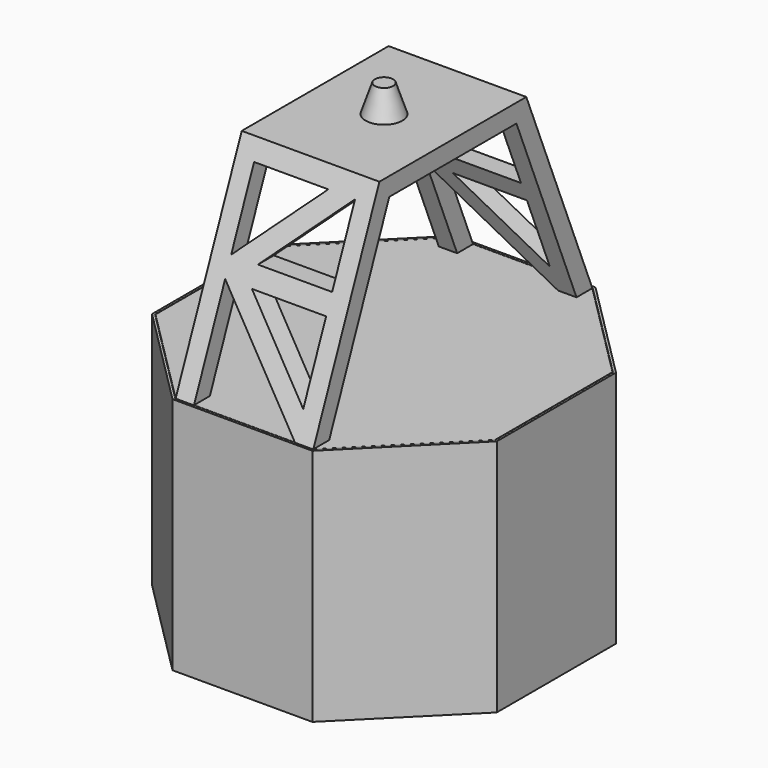
from build123d import *

# Parameters (mm, degrees)
F1_R      = 845.7
F1_R_2    = 833
F2_DEPTH  = 2600
F4_DEPTH  = 25
F6_DEPTH  = 2600
F10_DEPTH = 2600
F14_DEPTH = 1500
F16_DEPTH = 2500


with BuildPart() as f2:
    # F1 (on offset) → F2 (new body)
    with BuildSketch(Plane.XY.offset(4071)):
        Circle(F1_R)
        Circle(F1_R_2, mode=Mode.SUBTRACT)
    extrude(amount=F2_DEPTH)

    # F3 (on face) → F4 (join)
    with BuildSketch(Plane.XY.offset(6671)):
        Polygon((1850, 800), (750, 1900), (-750, 1900), (-1850, 800), (-1850, -800), (-750, -1900), (750, -1900), (1850, -800), align=None)
    extrude(amount=-F4_DEPTH)

    # F5 (on face) → F6 (join, through all)
    with BuildSketch(Plane.XY.offset(6671)):
        Polygon((-778.6131622156, 350.3162622897), (-1818.5068056707, 800), (-1828.4295844378, 777.053574101), (-788.5359409827, 327.3698363907), align=None)
        Polygon((-726.7461194667, 1875.134666342), (-750, 1865.9555029736), (-325.1097485987, 789.5668660904), (-301.8558680654, 798.7460294588), align=None)
        Polygon((749.9244345386, 1864.9773142368), (726.4355577952, 1875.134666342), (301.5606010357, 798.7847758847), (325.351870489, 789.393485311), align=None)
        Polygon((1827.919662318, 776.5111232566), (1817.7623102128, 800), (777.8686667577, 350.3162622897), (788.0260188629, 326.8273855462), align=None)
        Polygon((1827.919662318, -776.5111232566), (788.5526399052, -327.0551135645), (779.1516125068, -350.8710496407), (1817.7623102128, -800), align=None)
        Polygon((750.307597146, -1865.9299411194), (325.351870489, -789.3754335881), (301.5482709194, -798.771591313), (726.5039975765, -1875.3260988443), align=None)
        Polygon((-301.8558680654, -799.5327856934), (-325.3447448089, -789.3754335881), (-750, -1865.168746739), (-726.5111232566, -1875.3260988443), align=None)
        Polygon((-778.3838503226, -350.5318232161), (-788.5359409827, -327.0551135645), (-1827.9029633955, -776.5111232566), (-1818.5068056707, -800.3147228261), align=None)
    extrude(amount=-F6_DEPTH)

    # F13 (on plane+point) → F14 (join, through all)
    with BuildSketch(Plane.YZ.offset(750)):
        Polygon((1000, 8871), (-1000, 8871), (-1900, 6671), (-1683.9115577454, 6671), (-865.7297395636, 8671), (865.7297395636, 8671), (1683.9115577454, 6671), (1900, 6671), align=None)
    extrude(amount=-F14_DEPTH)

    # F15 (on Front) → F16 (cut, symmetric)
    with BuildSketch(Plane.XZ):
        Polygon((-550, 7708.4599297219), (-550, 6671), (550, 6671), align=None)
        Polygon((550, 7708.4599297219), (-258.5074452279, 7708.4599297219), (550, 6945.9198594439), align=None)
        Polygon((550, 8671), (-258.5074452279, 7908.4599297219), (550, 7908.4599297219), align=None)
        Polygon((-550, 8671), (-550, 7908.4599297219), (258.507445228, 8671), align=None)
    extrude(amount=F16_DEPTH, both=True, mode=Mode.SUBTRACT)

    # F17 (on Front) → F18 (revolve)
    with BuildSketch(Plane.XZ):
        Polygon((0, 9171), (-100, 9171), (-200, 8871), (0, 8871), align=None)
    revolve(axis=Axis((0, 0, 4435.5), (0, 0, 1)))


with BuildPart() as f10:
    # F9 (on face) → F10 (new body, through all)
    with BuildSketch(Plane.XY.offset(6671)):
        Polygon((1878, 811.5979797464), (761.5979797464, 1928), (-761.5979797464, 1928), (-1878, 811.5979797464), (-1878, -811.5979797464), (-761.5979797464, -1928), (761.5979797464, -1928), (1878, -811.5979797464), align=None)
        Polygon((-751.2426406871, 1903), (751.2426406871, 1903), (1853, 801.2426406871), (1853, -801.2426406871), (751.2426406871, -1903), (-751.2426406871, -1903), (-1853, -801.2426406871), (-1853, 801.2426406871), align=None, mode=Mode.SUBTRACT)
    extrude(amount=-F10_DEPTH)


solid = Compound([f2.part, f10.part])
